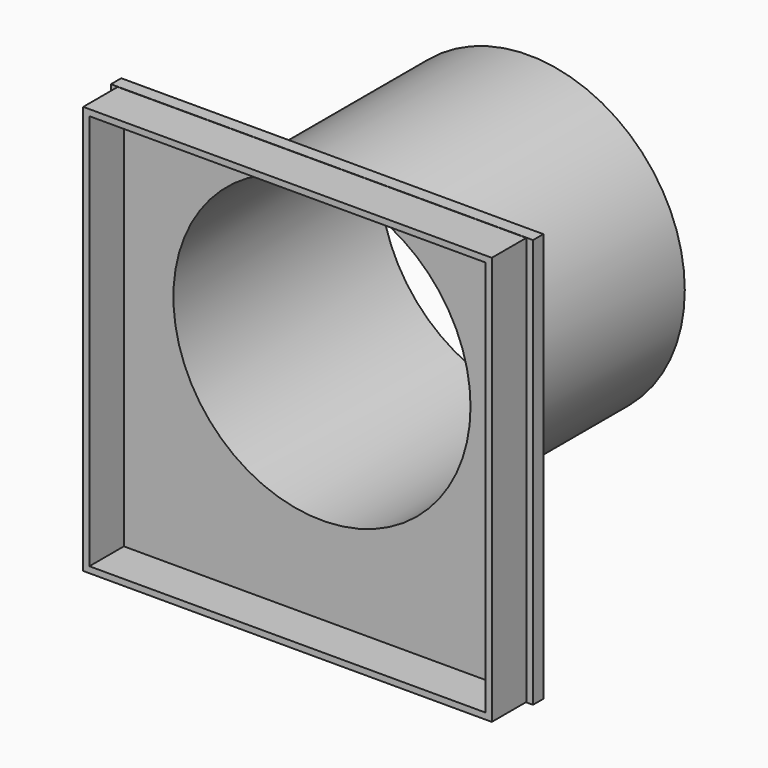
from build123d import *

# Parameters (mm, degrees)
F0_W     = 98
F0_H     = 95
F1_DEPTH = 3
F2_R     = 36.25
F2_R_2   = 33.25
F3_DEPTH = 4
F4_R     = 36.25
F4_R_2   = 34.5
F5_DEPTH = 60
F6_W     = 94.875
F6_H     = 94.875
F6_W_2   = 92
F6_H_2   = 92
F7_DEPTH = 10


with BuildPart() as f1:
    # F0 (on Front) → F1 (new body)
    with BuildSketch(Plane.XZ):
        Rectangle(F0_W, F0_H)
    extrude(amount=-F1_DEPTH)

    # F2 (on Front) → F3 (cut)
    with BuildSketch(Plane.XZ):
        with Locations((0, 8.75)):
            Circle(F2_R)
        with Locations((0, 8.75)):
            Circle(F2_R_2, mode=Mode.SUBTRACT)
        with Locations((0, 8.75)):
            Circle(F2_R_2)
    extrude(amount=-F3_DEPTH, mode=Mode.SUBTRACT)

    # F4 (on face) → F5 (join)
    with BuildSketch(Plane.XZ):
        with Locations((0, 8.75)):
            Circle(F4_R)
        with Locations((0, 8.75)):
            Circle(F4_R_2, mode=Mode.SUBTRACT)
    extrude(amount=-F5_DEPTH)

    # F6 (on Front) → F7 (join)
    with BuildSketch(Plane.XZ):
        Rectangle(F6_W, F6_H)
        Rectangle(F6_W_2, F6_H_2, mode=Mode.SUBTRACT)
    extrude(amount=F7_DEPTH)


solid = f1.part
